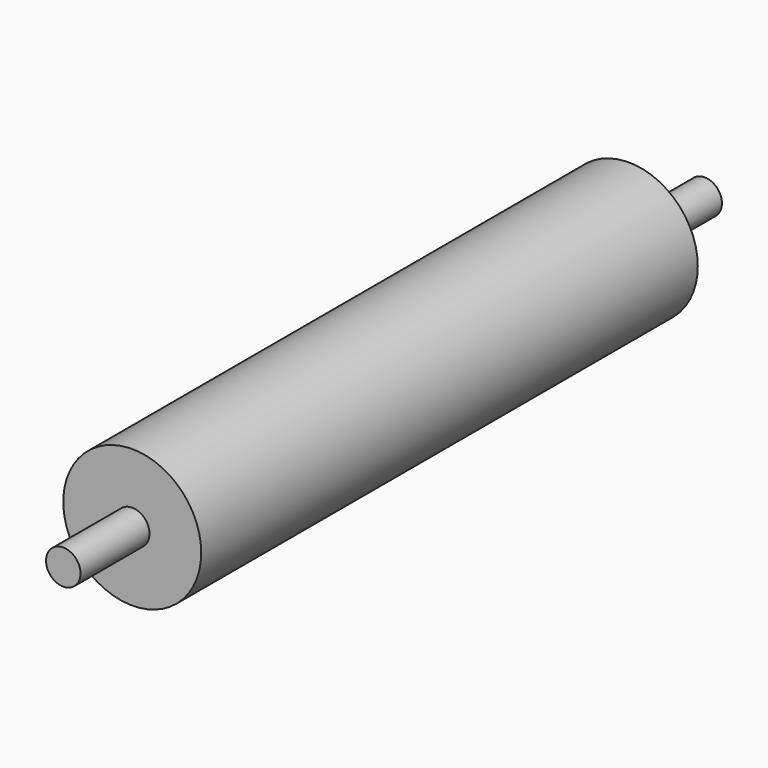
from build123d import *

# Parameters (mm, degrees)
F0_R     = 10
F1_DEPTH = 232.5
F3_R     = 40
F4_DEPTH = 180


with BuildPart() as f1:
    # F0 (on Front) → F1 (new body, symmetric)
    with BuildSketch(Plane.XZ):
        Circle(F0_R)
    extrude(amount=F1_DEPTH, both=True)


with BuildPart() as f4:
    # F3 (on offset) → F4 (new body, symmetric)
    with BuildSketch(Plane.XZ.offset(2.503)):
        Circle(F3_R)
    extrude(amount=F4_DEPTH, both=True)


solid = Compound([f1.part, f4.part])
